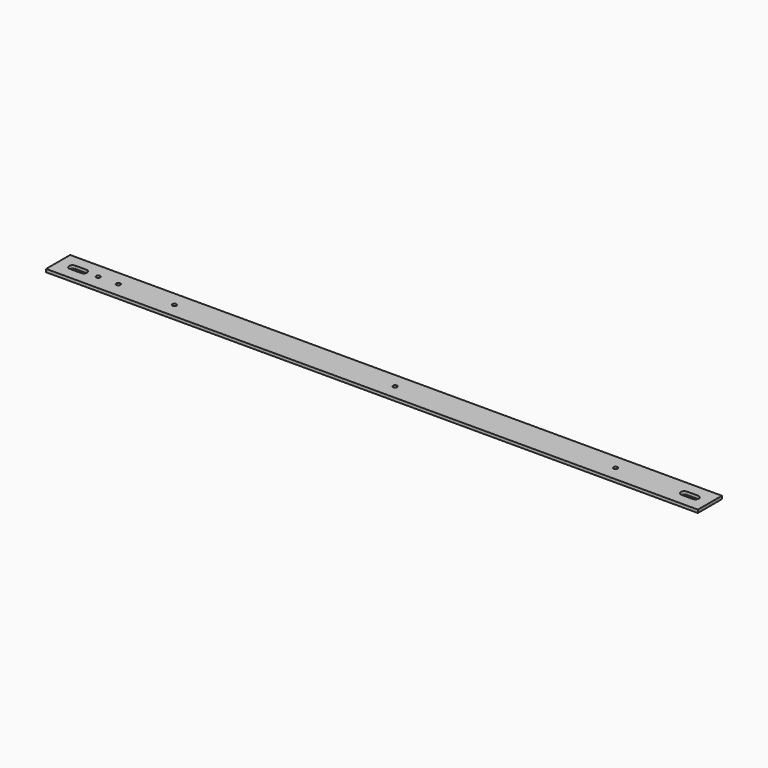
from build123d import *

# Parameters (mm, degrees)
F0_W     = 500
F0_H     = 30
F0_R     = 2.05
F0_W_2   = 150
F1_DEPTH = 3


with BuildPart() as f1:
    # F0 (on Top) → F1 (new body)
    with BuildSketch(Plane.XY):
        Rectangle(F0_W, F0_H)
        with BuildLine():
            ThreePointArc((-224.5, 3.5), (-221, 0), (-224.5, -3.5))
            Line((-224.5, -3.5), (-235.5, -3.5))
            ThreePointArc((-235.5, -3.5), (-239, 0), (-235.5, 3.5))
            Line((-235.5, 3.5), (-224.5, 3.5))
        make_face(mode=Mode.SUBTRACT)
        with Locations((-210, 0)):
            Circle(F0_R, mode=Mode.SUBTRACT)
        with Locations((-190, 0)):
            Circle(F0_R, mode=Mode.SUBTRACT)
        with Locations((-134, 0)):
            Circle(F0_R, mode=Mode.SUBTRACT)
        with Locations((86, 0)):
            Circle(F0_R, mode=Mode.SUBTRACT)
        with Locations((325, 0)):
            Rectangle(F0_W_2, F0_H)
        with Locations((306, 0)):
            Circle(F0_R, mode=Mode.SUBTRACT)
        with BuildLine():
            ThreePointArc((385.5, 3.5), (389, 0), (385.5, -3.5))
            Line((385.5, -3.5), (374.5, -3.5))
            ThreePointArc((374.5, -3.5), (371, 0), (374.5, 3.5))
            Line((374.5, 3.5), (385.5, 3.5))
        make_face(mode=Mode.SUBTRACT)
    extrude(amount=F1_DEPTH)


solid = f1.part
